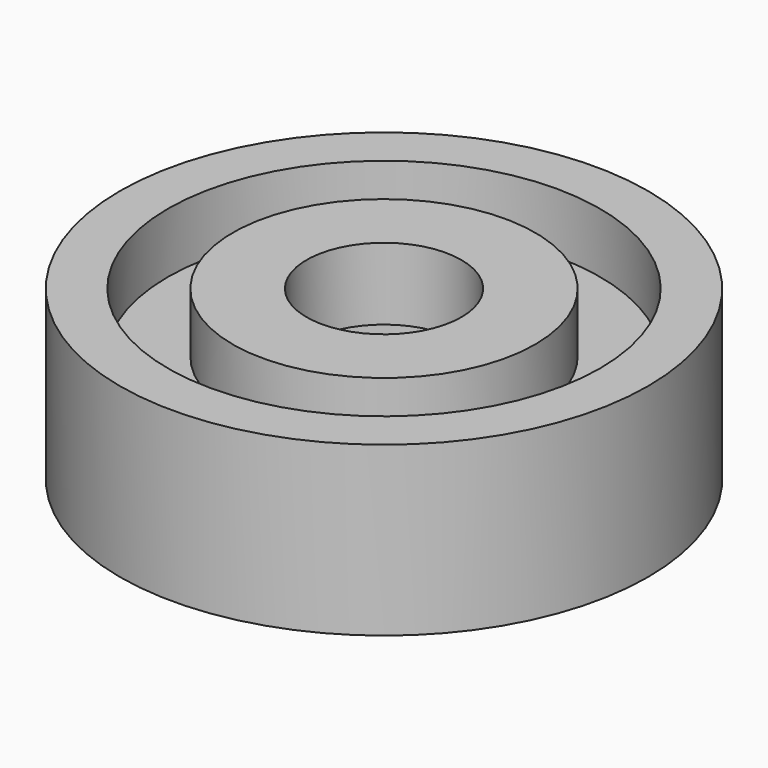
from build123d import *

# Parameters (mm, degrees)
SKETCH_R        = 22
PAD_DEPTH       = 14
SKETCH001_R     = 18
POCKET_DEPTH    = 5
SKETCH002_R     = 12.6
PAD001_DEPTH    = 5
SKETCH003_R     = 6.45
POCKET001_DEPTH = 14.001
SKETCH004_R     = 16.2
POCKET002_DEPTH = 8


with BuildPart() as part:
    # Sketch → Pad (new body)
    with BuildSketch(Plane.XY):
        Circle(SKETCH_R)
    extrude(amount=PAD_DEPTH)

    # Sketch001 → Pocket (cut)
    with BuildSketch(Plane.XY.offset(14)):
        Circle(SKETCH001_R)
    extrude(amount=-POCKET_DEPTH, mode=Mode.SUBTRACT)

    # Sketch002 → Pad001 (new body)
    with BuildSketch(Plane.XY.offset(9)):
        Circle(SKETCH002_R)
    extrude(amount=PAD001_DEPTH)

    # Sketch003 → Pocket001 (cut, through all)
    with BuildSketch(Plane.XY.offset(14)):
        Circle(SKETCH003_R)
    extrude(amount=-POCKET001_DEPTH, mode=Mode.SUBTRACT)

    # Sketch004 → Pocket002 (cut)
    with BuildSketch(Plane(origin=(0, 0, 0), x_dir=(1, 0, 0), z_dir=(0, 0, -1))):
        Circle(SKETCH004_R)
    extrude(amount=-POCKET002_DEPTH, mode=Mode.SUBTRACT)


solid = part.part
